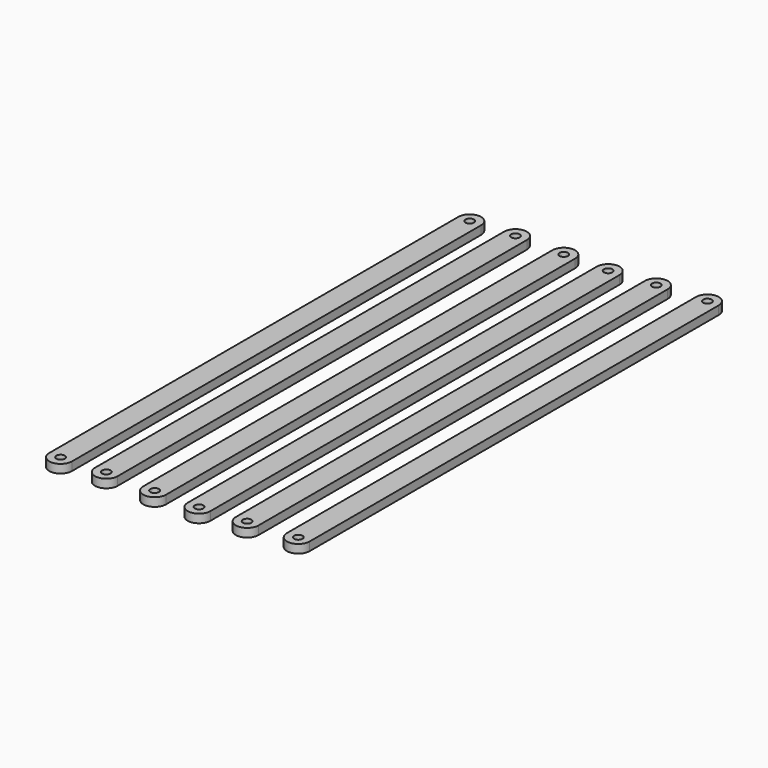
from build123d import *

# Parameters (mm, degrees)
F0_R     = 1.5
F1_DEPTH = 3


with BuildPart() as f1:
    # F0 (on Top) → F1 (new body)
    with BuildSketch(Plane.XY):
        with BuildLine():
            Line((-28.574253, -90.651485), (-28.574253, 89.348515))
            ThreePointArc((-28.574253, 89.348515), (-32.574253, 93.348515), (-36.574253, 89.348515))
            Line((-36.574253, 89.348515), (-36.574253, -90.651485))
            ThreePointArc((-36.574253, -90.651485), (-32.574253, -94.651485), (-28.574253, -90.651485))
        make_face()
        with Locations((-32.574253, -90.651485)):
            Circle(F0_R, mode=Mode.SUBTRACT)
        with Locations((-32.574253, 89.348515)):
            Circle(F0_R, mode=Mode.SUBTRACT)
        with BuildLine():
            Line((-13.264356, -89.674257), (-13.264356, 90.325743))
            ThreePointArc((-13.264356, 90.325743), (-17.264356, 94.325743), (-21.264356, 90.325743))
            Line((-21.264356, 90.325743), (-21.264356, -89.674257))
            ThreePointArc((-21.264356, -89.674257), (-17.264356, -93.674257), (-13.264356, -89.674257))
        make_face()
        with Locations((-17.264356, -89.674257)):
            Circle(F0_R, mode=Mode.SUBTRACT)
        with Locations((-17.264356, 90.325743)):
            Circle(F0_R, mode=Mode.SUBTRACT)
        with BuildLine():
            Line((4, -90), (4, 90))
            ThreePointArc((4, 90), (0, 94), (-4, 90))
            Line((-4, 90), (-4, -90))
            ThreePointArc((-4, -90), (0, -94), (4, -90))
        make_face()
        with Locations((0, -90)):
            Circle(F0_R, mode=Mode.SUBTRACT)
        with Locations((0, 90)):
            Circle(F0_R, mode=Mode.SUBTRACT)
        with BuildLine():
            Line((19.635641, -90), (19.635641, 90))
            ThreePointArc((19.635641, 90), (15.635641, 94), (11.635641, 90))
            Line((11.635641, 90), (11.635641, -90))
            ThreePointArc((11.635641, -90), (15.635641, -94), (19.635641, -90))
        make_face()
        with Locations((15.635641, -90)):
            Circle(F0_R, mode=Mode.SUBTRACT)
        with Locations((15.635641, 90)):
            Circle(F0_R, mode=Mode.SUBTRACT)
        with BuildLine():
            Line((35.271284, -88.371287), (35.271284, 91.628713))
            ThreePointArc((35.271284, 91.628713), (31.271284, 95.628713), (27.271284, 91.628713))
            Line((27.271284, 91.628713), (27.271284, -88.371287))
            ThreePointArc((27.271284, -88.371287), (31.271284, -92.371287), (35.271284, -88.371287))
        make_face()
        with Locations((31.271284, -88.371287)):
            Circle(F0_R, mode=Mode.SUBTRACT)
        with Locations((31.271284, 91.628713)):
            Circle(F0_R, mode=Mode.SUBTRACT)
        with BuildLine():
            Line((52.209906, -87.068317), (52.209906, 92.931683))
            ThreePointArc((52.209906, 92.931683), (48.209906, 96.931683), (44.209906, 92.931683))
            Line((44.209906, 92.931683), (44.209906, -87.068317))
            ThreePointArc((44.209906, -87.068317), (48.209906, -91.068317), (52.209906, -87.068317))
        make_face()
        with Locations((48.209906, -87.068317)):
            Circle(F0_R, mode=Mode.SUBTRACT)
        with Locations((48.209906, 92.931683)):
            Circle(F0_R, mode=Mode.SUBTRACT)
    extrude(amount=F1_DEPTH)


solid = f1.part
